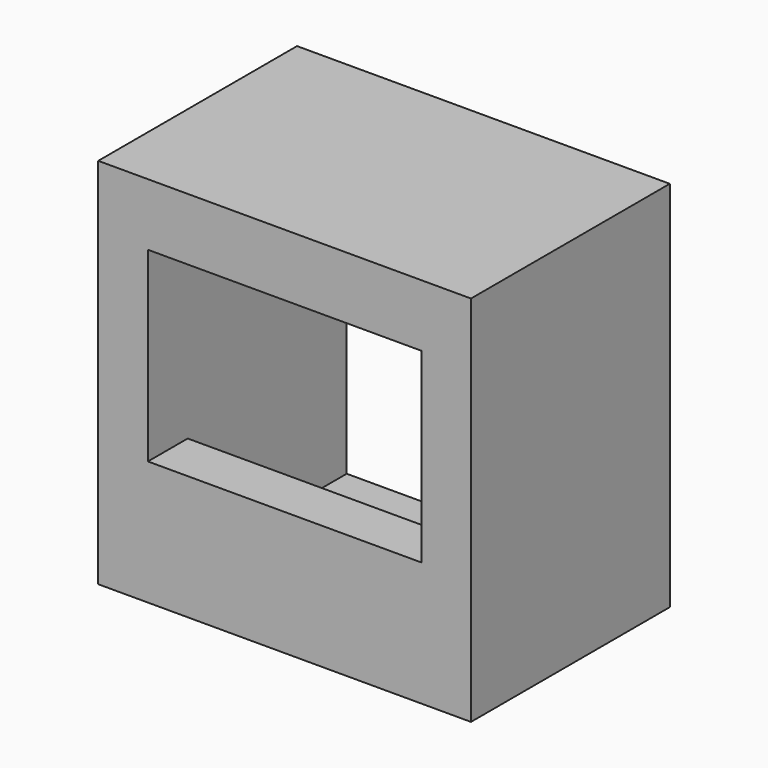
from build123d import *

# Parameters (mm, degrees)
F0_W     = 381
F0_H     = 254
F1_DEPTH = 381
F2_W     = 279.4
F2_H     = 190.5
F3_DEPTH = 254.001
F4_W     = 279.4
F4_H     = 203.2
F5_DEPTH = 114.3


with BuildPart() as f1:
    # F0 (on Top) → F1 (new body)
    with BuildSketch(Plane.XY):
        Rectangle(F0_W, F0_H)
    extrude(amount=F1_DEPTH)

    # F2 (on face) → F3 (cut, through all)
    with BuildSketch(Plane.XZ.offset(127)):
        with Locations((0, 222.25)):
            Rectangle(F2_W, F2_H)
    extrude(amount=-F3_DEPTH, mode=Mode.SUBTRACT)

    # F4 (on face) → F5 (cut)
    with BuildSketch(Plane.XY.offset(127)):
        with Locations((0, 25.4)):
            Rectangle(F4_W, F4_H)
    extrude(amount=-F5_DEPTH, mode=Mode.SUBTRACT)


solid = f1.part
